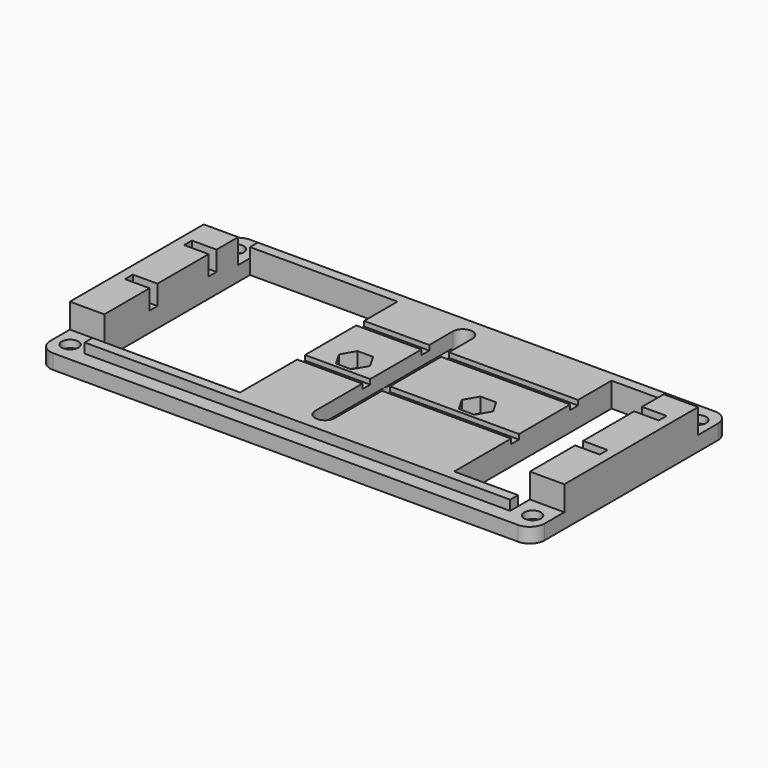
from build123d import *

# Parameters (mm, degrees)
SKETCH_W        = 100.5
SKETCH_H        = 50
SKETCH_R        = 1.7
SKETCH_W_2      = 30
SKETCH_H_2      = 40
SKETCH_W_3      = 13
PAD_DEPTH       = 8
SKETCH001_W     = 86.5
SKETCH001_H     = 44
POCKET_DEPTH    = 3
SKETCH002_W     = 96.5
SKETCH002_H     = 2
POCKET001_DEPTH = 4
POCKET003_DEPTH = 5
SKETCH005_R     = 1.7
POCKET004_DEPTH = 3.001
POCKET005_DEPTH = 3
FILLET_R        = 3
FILLET001_R     = 3
FILLET002_R     = 3
FILLET003_R     = 3
SKETCH007_W     = 4
SKETCH007_H     = 35
POCKET006_DEPTH = 3
SKETCH008_R     = 2
POCKET007_DEPTH = 5.001
CHAMFER_SIZE    = 1.5
CHAMFER001_SIZE = 1.5
CHAMFER002_SIZE = 1.5
CHAMFER003_SIZE = 1.5


with BuildPart() as part:
    # Sketch → Pad (new body)
    with BuildSketch(Plane.XY):
        Rectangle(SKETCH_W, SKETCH_H)
        with Locations((-6, 0)):
            Circle(SKETCH_R, mode=Mode.SUBTRACT)
        with Locations((19, 0)):
            Circle(SKETCH_R, mode=Mode.SUBTRACT)
        with Locations((-28.25, 0)):
            Rectangle(SKETCH_W_2, SKETCH_H_2, mode=Mode.SUBTRACT)
        with Locations((36.75, 0)):
            Rectangle(SKETCH_W_3, SKETCH_H_2, mode=Mode.SUBTRACT)
    extrude(amount=PAD_DEPTH)

    # Sketch001 → Pocket (cut)
    with BuildSketch(Plane.XY.offset(8)):
        Rectangle(SKETCH001_W, SKETCH001_H)
    extrude(amount=-POCKET_DEPTH, mode=Mode.SUBTRACT)

    # Sketch002 → Pocket001 (cut)
    with BuildSketch(Plane.XY.offset(8)):
        with Locations((0, 10.5)):
            Rectangle(SKETCH002_W, SKETCH002_H)
        with Locations((0, -4.5)):
            Rectangle(SKETCH002_W, SKETCH002_H)
    extrude(amount=-POCKET001_DEPTH, mode=Mode.SUBTRACT)

    # Sketch004 → Pocket003 (cut)
    with BuildSketch(Plane.XY.offset(8)):
        Polygon((-50.25, 25), (50.25, 25), (50.25, 17), (43.25, 17), (43.25, 22), (-43.25, 22), (-43.25, 17), (-50.25, 17), align=None)
        Polygon((50.25, -17), (50.25, -25), (-50.25, -25), (-50.25, -17), (-43.25, -17), (-43.25, -22), (43.25, -22), (43.25, -17), align=None)
    extrude(amount=-POCKET003_DEPTH, mode=Mode.SUBTRACT)

    # Sketch005 → Pocket004 (cut, through all)
    with BuildSketch(Plane.XY.offset(3)):
        with Locations((-47, 21)):
            Circle(SKETCH005_R)
        with Locations((47, 21)):
            Circle(SKETCH005_R)
        with Locations((47, -21)):
            Circle(SKETCH005_R)
        with Locations((-47, -21)):
            Circle(SKETCH005_R)
    extrude(amount=-POCKET004_DEPTH, mode=Mode.SUBTRACT)

    # Sketch006 → Pocket005 (cut)
    with BuildSketch(Plane.XY.offset(5)):
        Polygon((-7.587713, 2.75), (-9.175426, 0), (-7.587713, -2.75), (-4.412287, -2.75), (-2.824574, 0), (-4.412287, 2.75), align=None)
        Polygon((17.412287, 2.75), (15.824574, 0), (17.412287, -2.75), (20.587713, -2.75), (22.175426, 0), (20.587713, 2.75), align=None)
    extrude(amount=-POCKET005_DEPTH, mode=Mode.SUBTRACT)

    # Fillet
    fillet_edges = [part.edges().sort_by_distance(p)[0] for p in [
        (-50.25, -25, 1.5),
    ]]
    fillet(fillet_edges, radius=FILLET_R)

    # Fillet001
    fillet001_edges = [part.edges().sort_by_distance(p)[0] for p in [
        (-50.25, 25, 1.5),
    ]]
    fillet(fillet001_edges, radius=FILLET001_R)

    # Fillet002
    fillet002_edges = [part.edges().sort_by_distance(p)[0] for p in [
        (50.25, -25, 1.5),
    ]]
    fillet(fillet002_edges, radius=FILLET002_R)

    # Fillet003
    fillet003_edges = [part.edges().sort_by_distance(p)[0] for p in [
        (50.25, 25, 1.5),
    ]]
    fillet(fillet003_edges, radius=FILLET003_R)

    # Sketch007 → Pocket006 (cut)
    with BuildSketch(Plane.XY.offset(5)):
        with Locations((2, 0)):
            Rectangle(SKETCH007_W, SKETCH007_H)
    extrude(amount=-POCKET006_DEPTH, mode=Mode.SUBTRACT)

    # Sketch008 → Pocket007 (cut, through all)
    with BuildSketch(Plane.XY.offset(5)):
        with Locations((2, 17.5)):
            Circle(SKETCH008_R)
        with Locations((2, 0)):
            Circle(SKETCH008_R)
        with Locations((2, -17.5)):
            Circle(SKETCH008_R)
    extrude(amount=-POCKET007_DEPTH, mode=Mode.SUBTRACT)

    # Chamfer
    chamfer_edges = [part.edges().sort_by_distance(p)[0] for p in [
        (-48.7, 21, 0),
    ]]
    chamfer(chamfer_edges, length=CHAMFER_SIZE)

    # Chamfer001
    chamfer001_edges = [part.edges().sort_by_distance(p)[0] for p in [
        (-48.7, -21, 0),
    ]]
    chamfer(chamfer001_edges, length=CHAMFER001_SIZE)

    # Chamfer002
    chamfer002_edges = [part.edges().sort_by_distance(p)[0] for p in [
        (45.3, 21, 0),
    ]]
    chamfer(chamfer002_edges, length=CHAMFER002_SIZE)

    # Chamfer003
    chamfer003_edges = [part.edges().sort_by_distance(p)[0] for p in [
        (45.3, -21, 0),
    ]]
    chamfer(chamfer003_edges, length=CHAMFER003_SIZE)


solid = part.part
